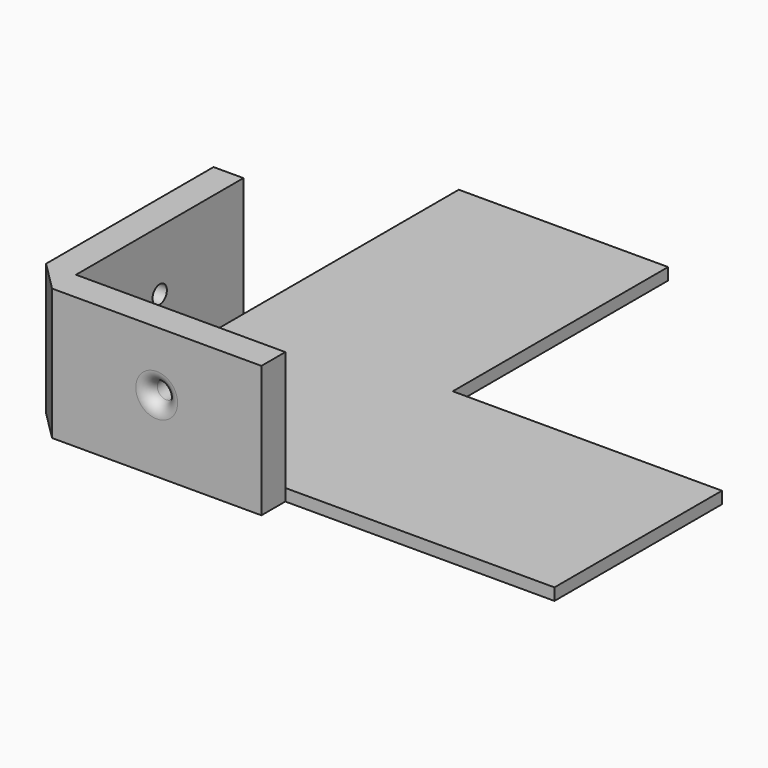
from build123d import *

# Parameters (mm, degrees)
F0_W     = 45
F0_H     = 35
F0_W_2   = 35
F0_H_2   = 45
F0_W_3   = 5
F0_H_3   = 5
F3_DEPTH = 2
F4_DEPTH = 20
F1_R     = 1.5
F5_DEPTH = 25
F2_R     = 1.5
F6_DEPTH = 25
F7_R     = 2


with BuildPart() as f3:
    # F0 (on Top) → F3 (new body)
    with BuildSketch(Plane.XY):
        with Locations((57.5, 17.5)):
            Rectangle(F0_W, F0_H)
        with Locations((17.5, 17.5)):
            Rectangle(F0_W_2, F0_H)
        with Locations((17.5, 57.5)):
            Rectangle(F0_W_2, F0_H_2)
        with Locations((-2.5, 17.5)):
            Rectangle(F0_W_3, F0_H)
        with Locations((17.5, -2.5)):
            Rectangle(F0_W_2, F0_H_3)
        Polygon((0, -5), (0, 0), (-5, 0), align=None)
    extrude(amount=-F3_DEPTH)

    # F0 (on Top) → F4 (join)
    with BuildSketch(Plane.XY):
        Polygon((0, -5), (0, 0), (-5, 0), align=None)
        with Locations((17.5, -2.5)):
            Rectangle(F0_W_2, F0_H_3)
        with Locations((-2.5, 17.5)):
            Rectangle(F0_W_3, F0_H)
    extrude(amount=F4_DEPTH)

    # F1 (on Front) → F5 (cut)
    with BuildSketch(Plane.XZ):
        with Locations((17.5, 10)):
            Circle(F1_R)
    extrude(amount=F5_DEPTH, mode=Mode.SUBTRACT)

    # F2 (on Right) → F6 (cut)
    with BuildSketch(Plane.YZ):
        with Locations((17.5, 10)):
            Circle(F2_R)
    extrude(amount=-F6_DEPTH, mode=Mode.SUBTRACT)

    # F7
    f7_edges = [f3.edges().sort_by_distance(p)[0] for p in [
        (16, -5, 10),
        (-5, 16, 10),
    ]]
    fillet(f7_edges, radius=F7_R)


solid = f3.part
